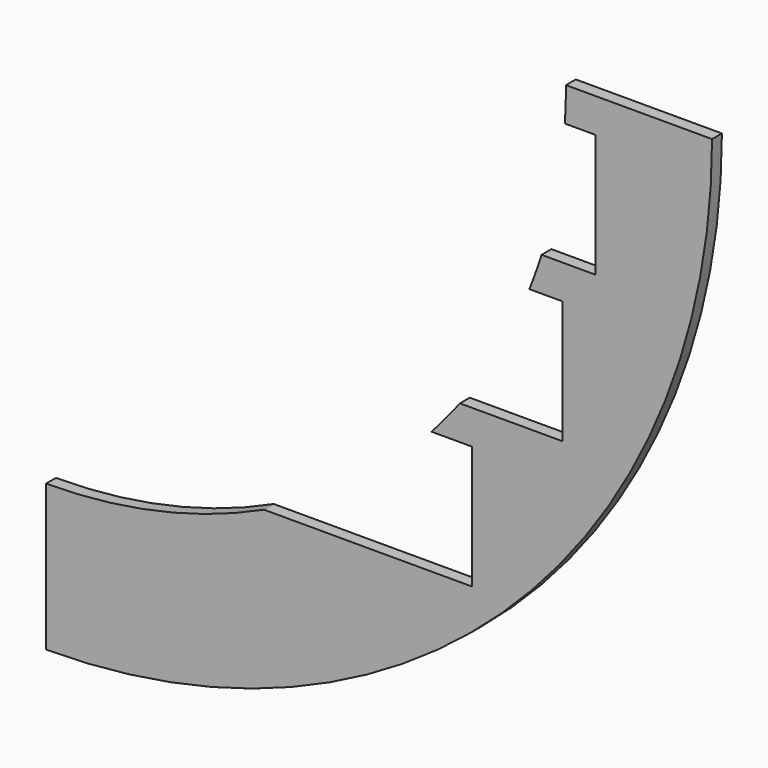
from build123d import *

# Parameters (mm, degrees)
F1_DEPTH = 1.8


with BuildPart() as f1:
    # F0 (on Front) → F1 (new body)
    with BuildSketch(Plane.XZ):
        with BuildLine():
            ThreePointArc((31.859065, -69), (16.309506, -74.229374), (0, -76))
            Line((0, -76), (0, -85))
            Line((0, -85), (0, -97.366121))
            ThreePointArc((0, -97.366121), (68.848244, -68.848244), (97.366121, 0))
            Line((97.366121, 0), (85, 0))
            Line((85, 0), (76, 0))
            ThreePointArc((76, 0), (75.958826, -2.501355), (75.835348, -5))
            Line((75.835348, -5), (80.34457, -5))
            Line((80.34457, -5), (80.34457, -23))
            Line((80.34457, -23), (72.436179, -23))
            ThreePointArc((72.436179, -23), (71.588798, -25.515563), (70.654087, -28))
            Line((70.654087, -28), (75.473505, -28))
            Line((75.473505, -28), (75.473505, -46))
            Line((75.473505, -46), (60.497934, -46))
            ThreePointArc((60.497934, -46), (58.476001, -48.544385), (56.347138, -51))
            Line((56.347138, -51), (62.283625, -51))
            Line((62.283625, -51), (62.283625, -69))
            Line((62.283625, -69), (31.859065, -69))
        make_face()
    extrude(amount=F1_DEPTH)


solid = f1.part
